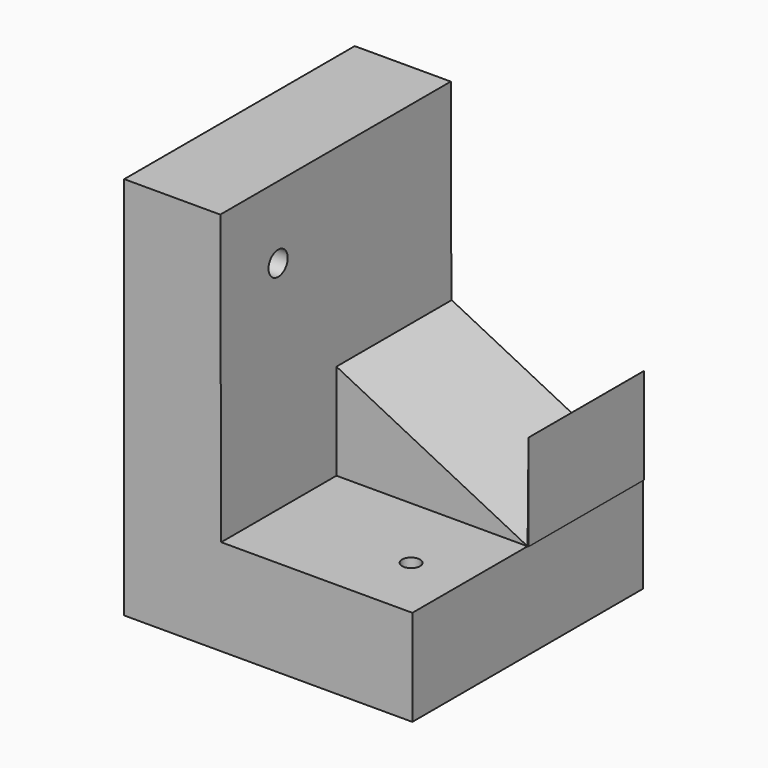
from build123d import *

# Parameters (mm, degrees)
F1_DEPTH  = 152.4
F2_W      = 101.6
F2_H      = 76.2
F3_DEPTH  = 50.8
F5_DEPTH  = 76.2
F6_R      = 4.7625
F7_DEPTH  = 101.6
F9_D      = 12.7
F1_FACE_W = 101.111528
F1_FACE_H = 76.2
F1_FACE_R = 4.7625
F10_DEPTH = 101.6


with BuildPart() as f1:
    # F0 (on Front) → F1 (new body)
    with BuildSketch(Plane.XZ):
        Polygon((8.221924, 147.278765), (-42.578076, 147.278765), (-42.578076, -55.921235), (109.821924, -55.921235), (109.821924, -5.121235), (8.710396, -5.121235), align=None)
    extrude(amount=F1_DEPTH)

    # F2 (on face) → F3 (join)
    with BuildSketch(Plane.XY.offset(-5.121235)):
        with Locations((59.510396, -38.1)):
            Rectangle(F2_W, F2_H)
    extrude(amount=F3_DEPTH)

    # F4 (on face) → F5 (cut)
    with BuildSketch(Plane.XZ.offset(76.2)):
        Polygon((110.310396, 45.678765), (8.710396, 45.678765), (109.821924, -5.121235), align=None)
    extrude(amount=-F5_DEPTH, mode=Mode.SUBTRACT)

    # F6 (on face) → F7 (cut)
    with BuildSketch(Plane.XY.offset(-5.121235)):
        with Locations((81.470236, -117.783487)):
            Circle(F6_R)
    extrude(amount=-F7_DEPTH, mode=Mode.SUBTRACT)

    # F9 (through all)
    with Locations(Plane.YZ.offset(110.310396)):
        with Locations((-114.3, 109.178765)):
            Hole(F9_D / 2)

    # F1_face (on face) → F10 (cut)
    with BuildSketch(Plane(origin=(59.26616, -76.2, -5.121235), x_dir=(1, 0, 0), z_dir=(0, 0, 1))):
        with Locations((0, -38.1)):
            Rectangle(F1_FACE_W, F1_FACE_H)
        with Locations((22.204076, -41.583487)):
            Circle(F1_FACE_R, mode=Mode.SUBTRACT)
    extrude(amount=F10_DEPTH, mode=Mode.SUBTRACT)


solid = f1.part
